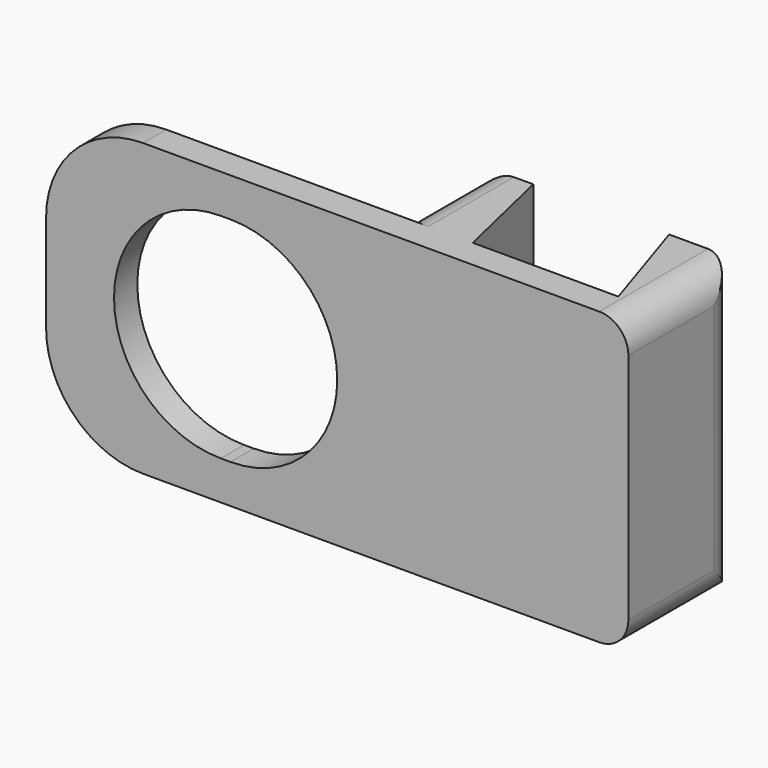
from build123d import *

# Parameters (mm, degrees)
PAD_DEPTH    = 30
POCKET_DEPTH = 5
FILLET_R     = 3
FILLET001_R  = 10


with BuildPart() as part:
    # Sketch → Pad (new body)
    with BuildSketch(Plane.XY):
        Polygon((-34, -3), (26, -3), (26, 11), (19, 11), (22.565685, 0), (7.565685, 0), (5, 11), (0, 11), (0, 0), (-34, 0), align=None)
    extrude(amount=PAD_DEPTH)

    # Sketch001 → Pocket (cut)
    with BuildSketch(Plane(origin=(0, 0, 0), x_dir=(-1, 0, 0), z_dir=(0, 1, 0))):
        with BuildLine():
            ThreePointArc((15, 26), (4, 15), (15, 4))
            Line((15, 4), (16, 4))
            ThreePointArc((16, 4), (27, 15), (16, 26))
            Line((15, 26), (16, 26))
        make_face()
    extrude(amount=-POCKET_DEPTH, mode=Mode.SUBTRACT)

    # Fillet
    fillet_edges = [part.edges().sort_by_distance(p)[0] for p in [
        (0, 11, 15),
        (0, 5.5, 30),
        (0, 5.5, 0),
        (26, 4, 0),
        (26, 11, 15),
        (26, 4, 30),
    ]]
    fillet(fillet_edges, radius=FILLET_R)

    # Fillet001
    fillet001_edges = [part.edges().sort_by_distance(p)[0] for p in [
        (-34, -1.5, 0),
        (-34, -1.5, 30),
    ]]
    fillet(fillet001_edges, radius=FILLET001_R)


solid = part.part
